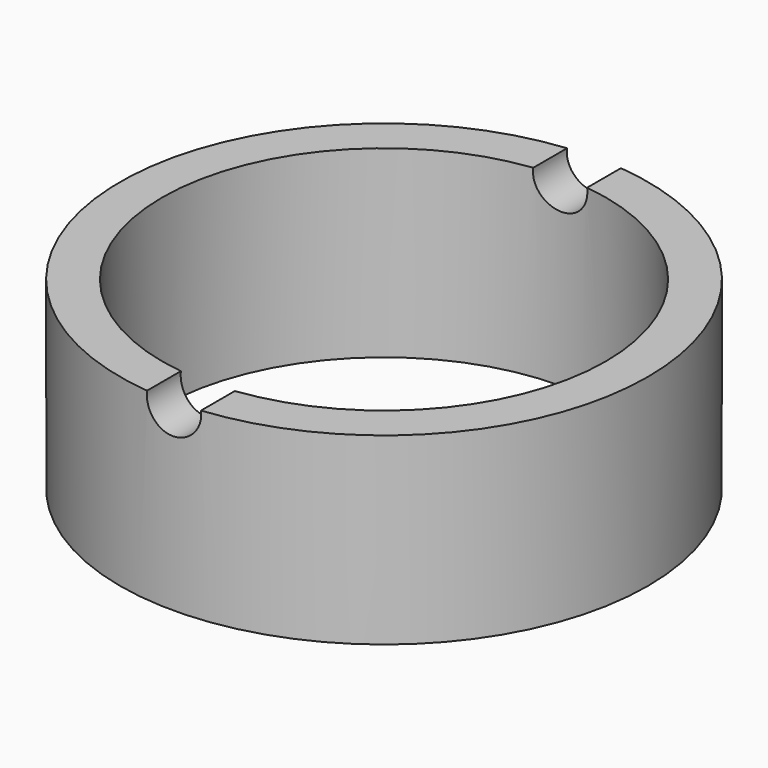
from build123d import *

# Parameters (mm, degrees)
F0_R     = 62.992
F1_DEPTH = 43.942
F2_R     = 52.959
F3_DEPTH = 43.942
F4_R     = 6.4897
F5_DEPTH = 63.5


with BuildPart() as f1:
    # F0 (on Top) → F1 (new body)
    with BuildSketch(Plane.XY):
        Circle(F0_R)
    extrude(amount=F1_DEPTH)

    # F2 (on face) → F3 (cut)
    with BuildSketch(Plane.XY.offset(43.942)):
        Circle(F2_R)
    extrude(amount=-F3_DEPTH, mode=Mode.SUBTRACT)

    # F4 (on Front) → F5 (cut, symmetric)
    with BuildSketch(Plane.XZ):
        with Locations((0, 43.091593)):
            Circle(F4_R)
    extrude(amount=F5_DEPTH, both=True, mode=Mode.SUBTRACT)


solid = f1.part
